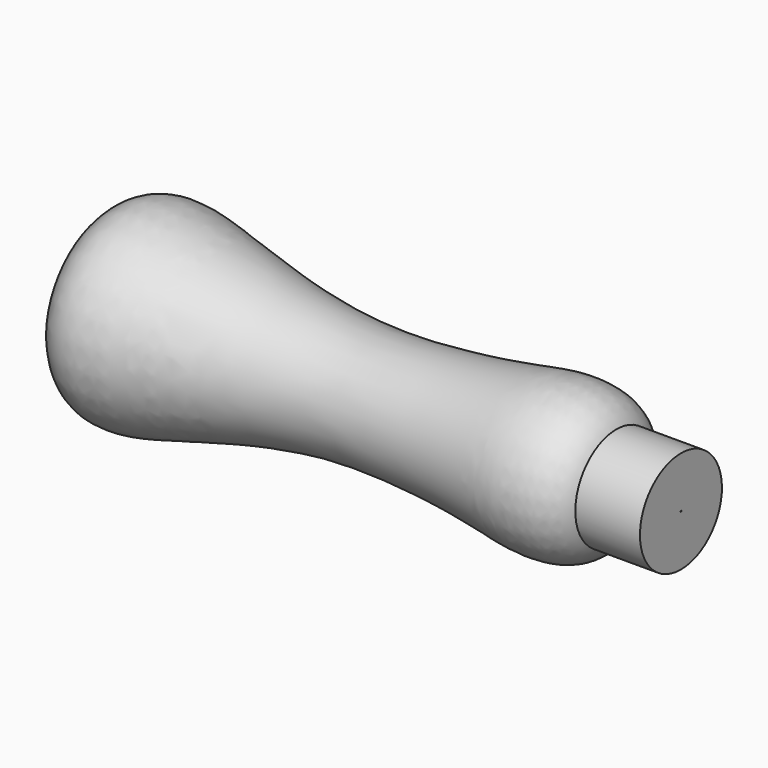
from build123d import *


with BuildPart() as f1:
    # F0 (on Front) → F1 (revolve)
    with BuildSketch(Plane.XZ):
        with BuildLine():
            add(Edge.make_bspline(
                [(-67.5638636402, 0), (-67.5638636402, 5.7304178164), (-67.5638636402, 11.4608356329), (-67.5638636402, 17.1912534493)],
                knots=[0, 0, 0, 0, 17.1912534493, 17.1912534493, 17.1912534493, 17.1912534493], degree=3))
            add(Edge.make_bspline(
                [(-67.5638636402, 0), (-62.6971894549, -6.0143447767), (-44.4123666534, -1.4846945267), (-14.3431307765, 6.7477690953), (20.4756530236, 2.6577798459), (32.1163805913, -0.1007577767), (42.5427546964, 1.5064780541), (45.0935401973, 5.9534297549)],
                knots=[0, 0, 0, 0, 0.1972726561, 0.446005187, 0.6942056999, 0.8447752473, 1, 1, 1, 1], degree=3))
            Line((45.0935401973, 5.9534297549), (59.4361363598, 5.9534297549))
            Line((59.4361363598, 5.9534297549), (59.4361363598, 17.1912534493))
            Line((59.4361363598, 17.1912534493), (-67.5638636402, 17.1912534493))
        make_face()
    revolve(axis=Axis((1.696931334, 0, 17.3201144555), (1, 0, 0)))


solid = f1.part
